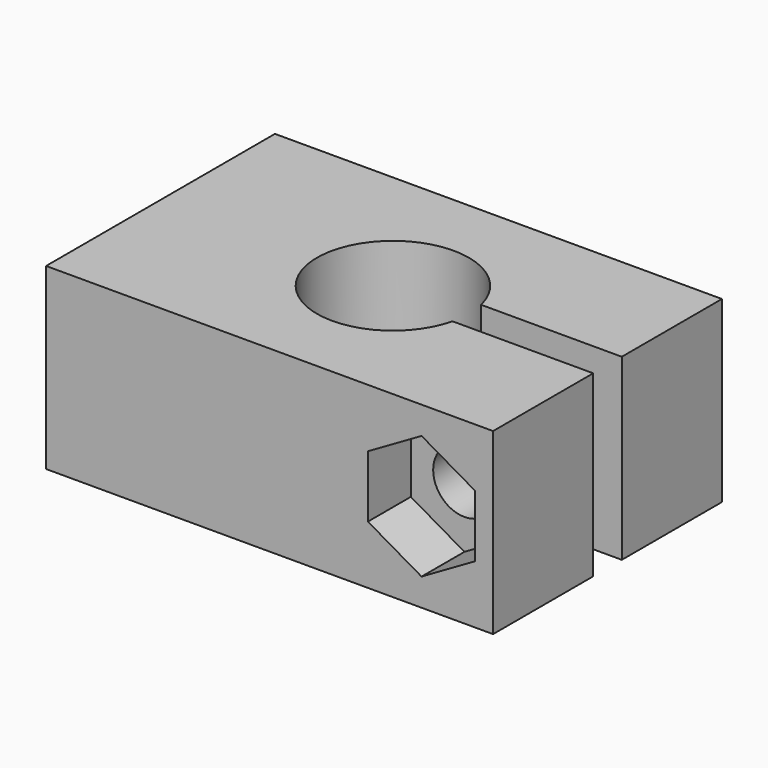
from build123d import *

# Parameters (mm, degrees)
PAD_DEPTH       = 10
SKETCH001_R     = 1.75
POCKET_DEPTH    = 16
SKETCH002_R     = 3
POCKET001_DEPTH = 3.5
POCKET002_DEPTH = 3


with BuildPart() as part:
    # Sketch → Pad (new body)
    with BuildSketch(Plane.XY):
        with BuildLine():
            Line((0, 0), (0, 16))
            Line((0, 16), (25, 16))
            Line((25, 16), (25, 9))
            Line((25, 9), (17.130678, 9))
            ThreePointArc((17.130678, 9), (8.75, 8), (17.130678, 7))
            Line((17.130678, 7), (25, 7))
            Line((25, 7), (25, 0))
            Line((25, 0), (0, 0))
        make_face()
    extrude(amount=PAD_DEPTH)

    # Sketch001 → Pocket (cut)
    with BuildSketch(Plane(origin=(0, 16, 0), x_dir=(-1, 0, 0), z_dir=(0, 1, 0))):
        with Locations((-21, 4.999996)):
            Circle(SKETCH001_R)
    extrude(amount=-POCKET_DEPTH, mode=Mode.SUBTRACT)

    # Sketch002 → Pocket001 (cut)
    with BuildSketch(Plane(origin=(0, 16, 0), x_dir=(-1, 0, 0), z_dir=(0, 1, 0))):
        with Locations((-21, 5)):
            Circle(SKETCH002_R)
    extrude(amount=-POCKET001_DEPTH, mode=Mode.SUBTRACT)

    # Sketch003 → Pocket002 (cut)
    with BuildSketch(Plane.XZ):
        Polygon((20.999999, 8.461405), (18, 6.729354), (18, 3.265252), (21, 1.533202), (24, 3.265253), (24, 6.729355), align=None)
    extrude(amount=-POCKET002_DEPTH, mode=Mode.SUBTRACT)


solid = part.part
